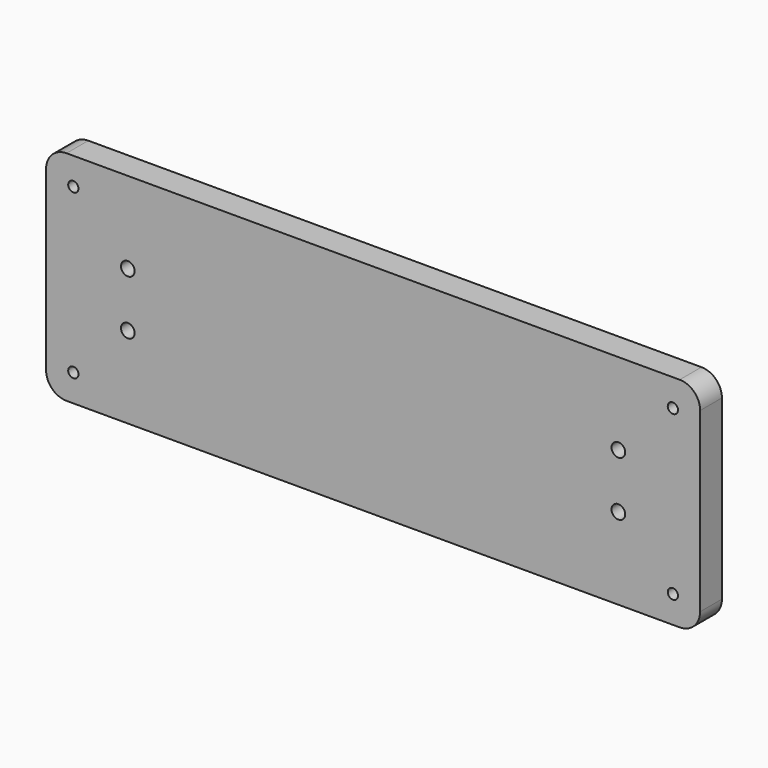
from build123d import *

# Parameters (mm, degrees)
F0_W     = 304.8
F0_H     = 101.6
F1_DEPTH = 12.7
F2_R     = 9.525
F4_D     = 4.7752
F6_D     = 6.35


with BuildPart() as f1:
    # F0 (on Front) → F1 (new body)
    with BuildSketch(Plane.XZ):
        with Locations((152.4, 50.8)):
            Rectangle(F0_W, F0_H)
    extrude(amount=F1_DEPTH)

    # F2
    f2_edges = [f1.edges().sort_by_distance(p)[0] for p in [
        (0, -6.35, 101.6),
        (0, -6.35, 0),
        (304.8, -6.35, 0),
        (304.8, -6.35, 101.6),
    ]]
    fillet(f2_edges, radius=F2_R)

    # F4 (through all)
    with Locations(Plane.XZ.offset(12.7)):
        with Locations((12.7, 88.9), (12.7, 12.7), (292.1, 12.7), (292.1, 88.9)):
            Hole(F4_D / 2)

    # F6 (through all)
    with Locations(Plane.XZ.offset(12.7)):
        with Locations((38.1, 63.5), (38.1, 38.1), (266.7, 63.5), (266.7, 38.1)):
            Hole(F6_D / 2)


solid = f1.part
